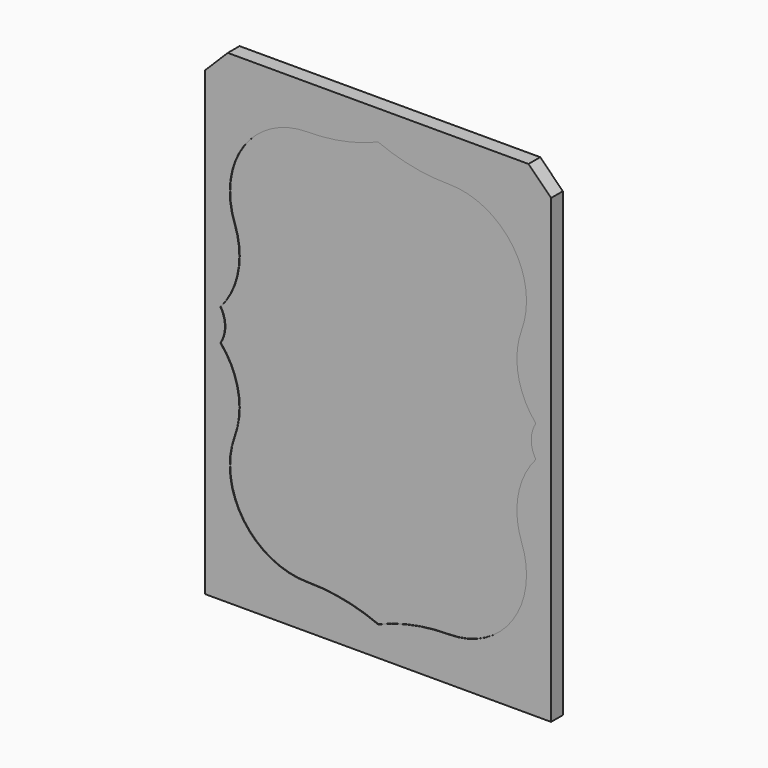
from build123d import *

# Parameters (mm, degrees)
F0_W     = 77.724
F0_H     = 108.712
F1_DEPTH = 3.302
F3_R     = 13.3445871966
F4_DEPTH = 3.302
F5_SIZE  = 5.08
F6_DEPTH = 0.127


with BuildPart() as f1:
    # F0 (on Front) → F1 (new body)
    with BuildSketch(Plane.XZ):
        Rectangle(F0_W, F0_H)
    extrude(amount=F1_DEPTH)

    # F3 (on face) → F4 (join)
    with BuildSketch(Plane.XZ.offset(3.302)):
        with BuildLine():
            add(Edge.make_bspline(
                [(-33.1284857231, -24.3833554431), (-30.3980902484, -23.448268281), (-27.6625298974, -23.0135580616), (-24.9168122419, -22.8877504962)],
                knots=[0.0236239796, 0.0236239796, 0.0236239796, 0.0236239796, 0.1438563975, 0.1438563975, 0.1438563975, 0.1438563975], degree=3))
            ThreePointArc((-33.1284857231, -24.3833554431), (-29.1410849834, -38.4326879001), (-15.8749999992, -44.5395771521))
            ThreePointArc((-15.8749999992, -44.5395771521), (-7.7803065213, -45.3411097626), (9e-10, -47.7145771515))
            ThreePointArc((9e-10, -47.7145771515), (7.780306523, -45.3411097624), (15.8750000008, -44.5395771515))
            ThreePointArc((15.8750000008, -44.5395771515), (28.9710149024, -38.6284104056), (33.2008619827, -24.8968448621))
            add(Edge.make_bspline(
                [(22.7832318895, -28.264905571), (26.870414184, -28.3483991479), (30.7081117423, -27.7740633769), (33.2008619827, -24.8968448621)],
                knots=[0.8224951004, 0.8224951004, 0.8224951004, 0.8224951004, 0.9908039431, 0.9908039431, 0.9908039431, 0.9908039431], degree=3))
            add(Edge.make_bspline(
                [(15.9953683619, -27.7933645546), (16.7598950609, -27.862629463), (19.0104314318, -28.0581684328), (21.3052242348, -28.2347126075), (22.7832318895, -28.264905571)],
                knots=[0.7300371536, 0.7300371536, 0.7300371536, 0.7300371536, 0.7616312241, 0.8224951004, 0.8224951004, 0.8224951004, 0.8224951004], degree=3))
            add(Edge.make_bspline(
                [(12.0445173218, -27.4086319137), (13.3501324037, -27.5450763369), (14.6659309282, -27.6729196282), (15.9953683619, -27.7933645546)],
                knots=[0.6750981435, 0.6750981435, 0.6750981435, 0.6750981435, 0.7300371536, 0.7300371536, 0.7300371536, 0.7300371536], degree=3))
            add(Edge.make_bspline(
                [(6.5035843618, -26.7679947406), (8.3365045469, -27.0014140297), (10.1801283043, -27.2137923413), (12.0445173218, -27.4086319137)],
                knots=[0.5966464709, 0.5966464709, 0.5966464709, 0.5966464709, 0.6750981435, 0.6750981435, 0.6750981435, 0.6750981435], degree=3))
            add(Edge.make_bspline(
                [(-15.7821923495, -23.3437299796), (-10.5480047667, -23.9624284424), (-3.1004870846, -25.4363431139), (4.3262408996, -26.490713729), (6.5035843618, -26.7679947406)],
                knots=[0.2765511336, 0.2765511336, 0.2765511336, 0.2765511336, 0.5034529768, 0.5966464709, 0.5966464709, 0.5966464709, 0.5966464709], degree=3))
            add(Edge.make_bspline(
                [(-24.9168122419, -22.8877504962), (-22.5127229742, -22.777596192), (-19.4725911361, -22.9372512735), (-16.4147628171, -23.2689580365), (-15.7821923495, -23.3437299796)],
                knots=[0.1438563975, 0.1438563975, 0.1438563975, 0.1438563975, 0.2491292266, 0.2765511336, 0.2765511336, 0.2765511336, 0.2765511336], degree=3))
        make_face()
        with BuildLine():
            ThreePointArc((-24.3962783332, -9.4429305632), (-23.5493439512, -16.2082072875), (-24.9168122419, -22.8877504962))
            add(Edge.make_bspline(
                [(-24.9168122419, -22.8877504962), (-22.5127229742, -22.777596192), (-19.4725911361, -22.9372512735), (-16.4147628171, -23.2689580365), (-15.7821923495, -23.3437299796)],
                knots=[0.1438563975, 0.1438563975, 0.1438563975, 0.1438563975, 0.2491292266, 0.2765511336, 0.2765511336, 0.2765511336, 0.2765511336], degree=3))
            ThreePointArc((-15.7821923495, -23.3437299796), (-16.7909764629, -16.1431204561), (-15.7821923495, -8.9425109327))
            add(Edge.make_bspline(
                [(-20.8150930703, 3.0249084812), (-20.084698855, 3.2617064252), (-18.5750809579, 3.7511331524), (-20.1108934357, 5.7423249077), (-21.3989497629, 8.4805039988), (-19.5926222129, 8.6232034417), (-20.0960081308, 6.4882204736), (-17.9845367, 4.4717269755), (-19.4827279307, 7.4877563676), (-17.6531933794, 7.9935220173), (-17.6518746238, 3.7165445405), (-19.7201607312, 2.5442912986), (-19.0033211234, 0.5113026434), (-21.5358089244, 0.646088536), (-20.7796208818, -5.7027505195), (-14.9489180074, 0.0978196974), (-17.977030073, 1.5236381763), (-14.9168721562, 2.6666255778), (-16.1211586732, 6.3598723413), (-13.8328776174, 5.6005762962), (-15.1421128769, 3.3154322822), (-14.4747759607, 0.1624480587), (-13.8084140261, 5.1188240441), (-11.0343102947, 2.7331078221), (-14.5615723999, -0.162479085), (-17.3031216925, -3.3366762112), (-18.0975664008, -8.8898410691), (-13.4356882131, -5.5746333853), (-15.3648709473, -3.8082111356), (-12.0527139611, -3.6659211986), (-13.248535603, -1.079337143), (-9.5910344453, -1.7447413323), (-10.7422685487, 3.0079941618), (-8.9849464366, -1.96339633), (-8.8102943074, 5.4988116301), (-7.4861779197, -0.6957485248), (-9.6724060403, -0.966318494), (-11.0218385517, -3.5291741027), (-13.7004320012, -4.2797101397), (-12.8029593717, -6.9381020727), (-14.7089673153, -8.2196946287), (-15.7821923495, -8.9425109327)],
                knots=[0, 0, 0, 0, 0.0231511603, 0.0478500744, 0.0752755755, 0.0903366321, 0.1142638791, 0.1352244444, 0.1593040946, 0.1744947233, 0.2060790631, 0.2315955315, 0.2516703156, 0.2733460952, 0.3049833457, 0.3431527772, 0.3650886659, 0.3896180862, 0.4183185893, 0.4354180503, 0.4626318971, 0.4841465121, 0.512674348, 0.5346264378, 0.5675595767, 0.6056671213, 0.6368592747, 0.6681518224, 0.6879987795, 0.7121233264, 0.7334743783, 0.7591560932, 0.7848708559, 0.8073025156, 0.8374341523, 0.8673194844, 0.8904493251, 0.9187369989, 0.9444600919, 0.9686867066, 1, 1, 1, 1], degree=3))
            add(Edge.make_bspline(
                [(-25.8914344013, -2.4853385985), (-26.396572956, -2.0003344615), (-27.3138435109, -1.1196261405), (-29.1352849859, -2.0598979002), (-28.7106271057, 0.8204026064), (-32.0312644098, -1.1715068103), (-31.3002695814, 3.7485837155), (-29.4483178555, 3.8301118075), (-30.8071023081, 1.5653871303), (-28.9526334159, 1.3619840648), (-29.4792210737, 5.2085047756), (-26.921055424, 4.4342075194), (-28.8119762327, 2.2854028303), (-27.5906596289, -1.3990701213), (-27.7699356497, 3.0747016102), (-25.2099586785, 2.6066763518), (-26.5953437573, -0.395391095), (-23.7025988652, -2.0340069969), (-23.1772681034, -6.0499515041), (-20.5435134821, -4.1808959475), (-25.0748704565, 2.6489737746), (-20.1368344266, 0.7949418705), (-20.6048167244, 2.3336418411), (-20.8150930703, 3.0249084812)],
                knots=[0, 0, 0, 0, 0.0457250435, 0.0830311605, 0.1245988121, 0.1705511092, 0.2321726775, 0.2625557415, 0.30723362, 0.3358214151, 0.393012377, 0.4286583434, 0.4808472993, 0.5282384525, 0.5813000538, 0.6192860311, 0.6705302416, 0.7286736986, 0.7872738172, 0.8280557864, 0.9074882994, 0.958434574, 1, 1, 1, 1], degree=3))
            ThreePointArc((-25.8914344013, -2.4853385985), (-24.9290967698, -4.9824855111), (-24.3962783332, -7.6050683856))
            add(Edge.make_bspline(
                [(-24.3962783332, -9.4429305632), (-25.4357243907, -10.1342055857), (-27.412273175, -11.4486922391), (-27.4547789496, -7.4214675852), (-30.5466070306, -9.5733915774), (-30.4542370334, -5.4520792207), (-32.3177618611, -5.8417990903), (-32.7140680164, -4.2769830225), (-32.0543630337, -2.7007935171), (-32.1251676799, -4.5533058245), (-30.3843482976, -5.4648837492), (-32.0501040037, -1.6640768267), (-30.4436660674, -1.9005229869), (-30.1720801803, -6.5942041642), (-29.7456686663, -3.178537531), (-28.1334595609, -3.5814958653), (-29.8697325683, -5.6494579394), (-29.5018476184, -7.7306733995), (-27.2359049314, -6.3250302911), (-26.4788550338, -9.3239236743), (-25.0993332141, -8.1853413666), (-24.3962783332, -7.6050683856)],
                knots=[0, 0, 0, 0, 0.0670169121, 0.1274354192, 0.1840138636, 0.2505621343, 0.2960523516, 0.3441354147, 0.3840734056, 0.4287810373, 0.4665753725, 0.5348972739, 0.5667760176, 0.6369485958, 0.6883070256, 0.7231632661, 0.7842390879, 0.8324575559, 0.8851485442, 0.9414679355, 1, 1, 1, 1], degree=3))
        make_face()
        with BuildLine():
            add(Edge.make_bspline(
                [(-20.2924981713, -15.781018883), (-20.5370775999, -16.1379246214), (-20.134132622, -17.1534868603), (-20.8639151565, -18.5661521393), (-21.9358468203, -19.4575377926), (-22.3700864307, -21.8865095148), (-20.237349518, -21.5763362209), (-19.5672362136, -20.438180371), (-19.2965010699, -18.8033454883), (-19.7803037906, -17.8720601229), (-19.908738804, -16.4540465799), (-19.0188083322, -15.0649598827), (-20.0853771822, -15.4787748635), (-20.2924981713, -15.781018883)],
                knots=[0, 0, 0, 0, 0.0904118203, 0.1854248684, 0.2814922978, 0.3865094541, 0.4809925493, 0.5711470892, 0.6690619631, 0.748512495, 0.8439845899, 0.9234351565, 1, 1, 1, 1], degree=3))
        make_face(mode=Mode.SUBTRACT)
        with BuildLine():
            add(Edge.make_bspline(
                [(-22.3910957575, -11.5529615432), (-22.0568118654, -12.2037220004), (-21.1170784891, -12.8832887919), (-21.7129777335, -14.1967346716), (-20.5379115522, -14.568750962), (-20.4867607869, -13.5076873001), (-20.8432701563, -11.8831681267), (-21.6439811905, -11.2404808042), (-22.9718655512, -9.3501247732), (-22.6978835435, -10.9557285785), (-22.3910957575, -11.5529615432)],
                knots=[0, 0, 0, 0, 0.1505340204, 0.2658311351, 0.3614801071, 0.4617187858, 0.6051372816, 0.7298931385, 0.8618479683, 1, 1, 1, 1], degree=3))
        make_face(mode=Mode.SUBTRACT)
        with BuildLine():
            add(Edge.make_bspline(
                [(-18.3790698647, -10.1024601609), (-18.7969421772, -10.2564427963), (-19.1553590595, -11.577398565), (-19.219348267, -12.6506630096), (-19.2408550579, -13.9350019391), (-18.8743899715, -14.8858473731), (-18.2833235222, -14.0155234153), (-18.1315989973, -13.0706647968), (-18.7065283271, -12.3462231403), (-18.4694817034, -11.2210464666), (-17.1590443019, -10.374237249), (-18.0760721444, -9.9908079022), (-18.3790698647, -10.1024601609)],
                knots=[0, 0, 0, 0, 0.1240572212, 0.2333232805, 0.347818092, 0.428679644, 0.5131510602, 0.6107152668, 0.7012679009, 0.8047604962, 0.9100465523, 1, 1, 1, 1], degree=3))
        make_face(mode=Mode.SUBTRACT)
        with BuildLine():
            ThreePointArc((5.4403450859, -12.5461180708), (6.6092683485, -19.609411059), (6.5035843618, -26.7679947406))
            add(Edge.make_bspline(
                [(6.5035843618, -26.7679947406), (8.3365045469, -27.0014140297), (10.1801283043, -27.2137923413), (12.0445173218, -27.4086319137)],
                knots=[0.5966464709, 0.5966464709, 0.5966464709, 0.5966464709, 0.6750981435, 0.6750981435, 0.6750981435, 0.6750981435], degree=3))
            Line((12.0445173218, -27.4086319137), (12.0445173218, -21.4756764472))
            ThreePointArc((12.0445173218, -21.4756764472), (14.0199428419, -19.5002509271), (15.9953683619, -21.4756764472))
            Line((15.9953683619, -21.4756764472), (15.9953683619, -27.7933645546))
            add(Edge.make_bspline(
                [(15.9953683619, -27.7933645546), (16.7598950609, -27.862629463), (19.0104314318, -28.0581684328), (21.3052242348, -28.2347126075), (22.7832318895, -28.264905571)],
                knots=[0.7300371536, 0.7300371536, 0.7300371536, 0.7300371536, 0.7616312241, 0.8224951004, 0.8224951004, 0.8224951004, 0.8224951004], degree=3))
            ThreePointArc((22.7832318895, -28.264905571), (22.4736636829, -20.3696155623), (23.5801553445, -12.5461180708))
            Line((23.5801553445, -12.5461180708), (28.4554600831, -13.4531514135))
            ThreePointArc((28.4554600831, -13.4531514135), (31.673336573, -11.9989868814), (31.424967593, -8.4765393743))
            ThreePointArc((31.424967593, -8.4765393743), (29.2529740879, -8.2440657168), (29.0205004305, -10.4160592219))
            ThreePointArc((29.0205004305, -10.4160592219), (29.058069024, -11.9208265797), (27.614886003, -12.3485636115))
            ThreePointArc((27.614886003, -12.3485636115), (23.4712314741, -5.8636115848), (28.4554600831, 0))
            ThreePointArc((28.4554600831, 0), (23.3706331923, -0.6006945639), (18.2612345592, -0.9328753515))
            Line((18.2612345592, -0.9328753515), (21.109645709, 8.6648291047))
            Line((21.109645709, 8.6648291047), (22.7452469365, 8.179414619))
            ThreePointArc((22.7452469365, 8.179414619), (24.0675287583, 9.9087492795), (21.9295363303, 9.4988517773))
            ThreePointArc((21.9295363303, 9.4988517773), (17.0915933325, 15.0640837031), (15.5871994793, 22.2831070423))
            Line((15.5871994793, 22.2831070423), (14.8853833456, 29.6840668302))
            Line((14.8853833456, 29.6840668302), (17.9889984262, 30.165095753))
            Line((17.9889984262, 30.165095753), (17.720128815, 31.8998516907))
            Line((17.720128815, 31.8998516907), (14.8043116011, 31.4479295364))
            Line((14.8043116011, 31.4479295364), (14.2361351446, 35.1138234881))
            Line((14.2361351446, 35.1138234881), (12.1174789965, 34.7854532301))
            Line((12.1174789965, 34.7854532301), (12.6562453806, 31.3093140721))
            Line((12.6562453806, 31.3093140721), (10.0379107516, 30.7162171018))
            Line((10.0379107516, 30.7162171018), (10.2517836951, 29.4975203391))
            Line((10.2517836951, 29.4975203391), (12.7509497106, 29.9361068755))
            Line((12.7509497106, 29.9361068755), (14.0939988196, 22.2831070423))
            ThreePointArc((14.0939988196, 22.2831070423), (12.6245914015, 15.2177663733), (7.6988285058, 9.9437681912))
            ThreePointArc((7.6988285058, 9.9437681912), (5.5906171254, 10.4864212664), (6.8022884056, 8.6778637491))
            Line((6.8022884056, 8.6778637491), (8.4650181234, 9.060157463))
            Line((8.4650181234, 9.060157463), (10.762639533, -0.9330055424))
            ThreePointArc((10.762639533, -0.9330055424), (5.6515483018, -0.6008483836), (0.5650403473, 0))
            ThreePointArc((0.5650403473, 0), (5.5492689564, -5.8636115848), (1.4056144274, -12.3485636115))
            ThreePointArc((1.4056144274, -12.3485636115), (-0.0375685935, -11.9208265797), (0, -10.4160592219))
            ThreePointArc((0, -10.4160592219), (-0.2324736575, -8.2440657168), (-2.4044671625, -8.4765393743))
            ThreePointArc((-2.4044671625, -8.4765393743), (-2.6528361426, -11.9989868814), (0.5650403473, -13.4531514135))
            Line((0.5650403473, -13.4531514135), (5.4403450859, -12.5461180708))
        make_face()
        Polygon((9.1227404773, -7.4148867279), (8.4774624556, -4.9826856703), (9.749203307, -4.868891682), (10.3401336819, -7.1323132142), align=None, mode=Mode.SUBTRACT)
        Polygon((10.9397291529, -9.5362256838), (9.768018499, -9.8470877856), (9.2899553012, -8.0451578014), (10.461665955, -7.7342956997), align=None, mode=Mode.SUBTRACT)
        Polygon((12.2584053658, -7.3401992658), (12.7159978886, -9.0649705743), (11.5734964264, -9.3680832964), (11.1159039036, -7.6433119879), align=None, mode=Mode.SUBTRACT)
        Polygon((10.332212454, -4.8167246576), (11.5597705233, -4.7068840966), (12.1378842059, -6.8859273354), (10.9000811353, -7.0559568703), align=None, mode=Mode.SUBTRACT)
        Polygon((17.9045965268, -7.6433119879), (17.4470040041, -9.3680832964), (16.3045025419, -9.0649705743), (16.7620950646, -7.3401992658), align=None, mode=Mode.SUBTRACT)
        Polygon((18.5588344754, -7.7342956997), (19.7305451293, -8.0451578014), (19.2524819314, -9.8470877856), (18.0807712776, -9.5362256838), align=None, mode=Mode.SUBTRACT)
        Polygon((18.6803667486, -7.1323132142), (19.2712971234, -4.868891682), (20.5430379748, -4.9826856703), (19.8977599531, -7.4148867279), align=None, mode=Mode.SUBTRACT)
        Polygon((16.8826162245, -6.8859273354), (17.4607299071, -4.7068840966), (18.6882879764, -4.8167246576), (18.1204192951, -7.0559568703), align=None, mode=Mode.SUBTRACT)
        with BuildLine():
            ThreePointArc((14.2767767446, 4.6611620079), (12.1414040207, 5.7303494735), (11.1097303552, 7.8840968947))
            Line((11.1097303552, 7.8840968947), (14.2767767446, 7.8840968947))
            Line((14.2767767446, 7.8840968947), (14.2767767446, 4.6611620079))
        make_face(mode=Mode.SUBTRACT)
        with BuildLine():
            ThreePointArc((11.1459939594, 8.983289175), (12.2280091457, 10.9819830574), (14.2767767446, 11.9658963789))
            Line((14.2767767446, 11.9658963789), (14.2767767446, 8.983289175))
            Line((14.2767767446, 8.983289175), (11.1459939594, 8.983289175))
        make_face(mode=Mode.SUBTRACT)
        with BuildLine():
            ThreePointArc((18.430607267, 7.8840968947), (17.3673699452, 5.6986165643), (15.1747141111, 4.6502567644))
            Line((15.1747141111, 4.6502567644), (15.1747141111, 7.8840968947))
            Line((15.1747141111, 7.8840968947), (18.430607267, 7.8840968947))
        make_face(mode=Mode.SUBTRACT)
        with BuildLine():
            ThreePointArc((15.1747141111, 11.9768016224), (17.2797356479, 11.0126579566), (18.3943436628, 8.983289175))
            Line((18.3943436628, 8.983289175), (15.1747141111, 8.983289175))
            Line((15.1747141111, 8.983289175), (15.1747141111, 11.9768016224))
        make_face(mode=Mode.SUBTRACT)
        with BuildLine():
            ThreePointArc((1.5084841621, 28.7364097307), (5.1963193944, 39.8156504287), (15.8749999992, 44.5395771521))
            ThreePointArc((15.8749999992, 44.5395771521), (7.7803065213, 45.3411097626), (-9e-10, 47.7145771515))
            ThreePointArc((-9e-10, 47.7145771515), (-7.780306523, 45.3411097624), (-15.8750000008, 44.5395771515))
            ThreePointArc((-15.8750000008, 44.5395771515), (-30.2008361805, 37.0625327748), (-32.2586794783, 21.0343995142))
            ThreePointArc((-32.2586794783, 21.0343995142), (-31.4618060576, 11.8664205536), (-35.4362714152, 3.5663922047))
            ThreePointArc((-35.4362714152, 3.5663922047), (-26.8661908779, 8.4248419398), (-17.0921185192, 9.6570447531))
            ThreePointArc((-17.0921185192, 9.6570447531), (-3.3712650978, 14.8871009528), (1.5084841621, 28.7364097307))
        make_face()
        with Locations((-15.8750000008, 27.0770771515)):
            Circle(F3_R, mode=Mode.SUBTRACT)
    extrude(amount=-F4_DEPTH)

    # F5
    f5_edges = [f1.edges().sort_by_distance(p)[0] for p in [
        (-38.862, -1.651, 54.356),
        (38.862, -1.651, 54.356),
    ]]
    chamfer(f5_edges, length=F5_SIZE)

    # F2 (on face) → F6 (cut)
    with BuildSketch(Plane.XZ.offset(3.302)):
        with BuildLine():
            ThreePointArc((32.2586794783, -21.0343995142), (31.4618060576, -11.8664205536), (35.4362714152, -3.5663922047))
            ThreePointArc((35.4362714152, -3.5663922047), (34.4136259983, 6e-10), (35.436271415, 3.566392206))
            ThreePointArc((35.436271415, 3.566392206), (31.4618060572, 11.8664205547), (32.2586794775, 21.0343995154))
            ThreePointArc((32.2586794775, 21.0343995154), (30.2008361791, 37.0625327759), (15.8749999992, 44.5395771521))
            ThreePointArc((15.8749999992, 44.5395771521), (7.7803065213, 45.3411097626), (-9e-10, 47.7145771515))
            ThreePointArc((-9e-10, 47.7145771515), (-7.780306523, 45.3411097624), (-15.8750000008, 44.5395771515))
            ThreePointArc((-15.8750000008, 44.5395771515), (-30.2008361805, 37.0625327748), (-32.2586794783, 21.0343995142))
            ThreePointArc((-32.2586794783, 21.0343995142), (-31.4618060576, 11.8664205536), (-35.4362714152, 3.5663922047))
            ThreePointArc((-35.4362714152, 3.5663922047), (-34.4136259983, -6e-10), (-35.436271415, -3.566392206))
            ThreePointArc((-35.436271415, -3.566392206), (-31.4618060572, -11.8664205547), (-32.2586794775, -21.0343995154))
            ThreePointArc((-32.2586794775, -21.0343995154), (-30.2008361791, -37.0625327759), (-15.8749999992, -44.5395771521))
            ThreePointArc((-15.8749999992, -44.5395771521), (-7.7803065213, -45.3411097626), (9e-10, -47.7145771515))
            ThreePointArc((9e-10, -47.7145771515), (7.780306523, -45.3411097624), (15.8750000008, -44.5395771515))
            ThreePointArc((15.8750000008, -44.5395771515), (30.2008361805, -37.0625327748), (32.2586794783, -21.0343995142))
        make_face()
    extrude(amount=-F6_DEPTH, mode=Mode.SUBTRACT)


solid = f1.part
